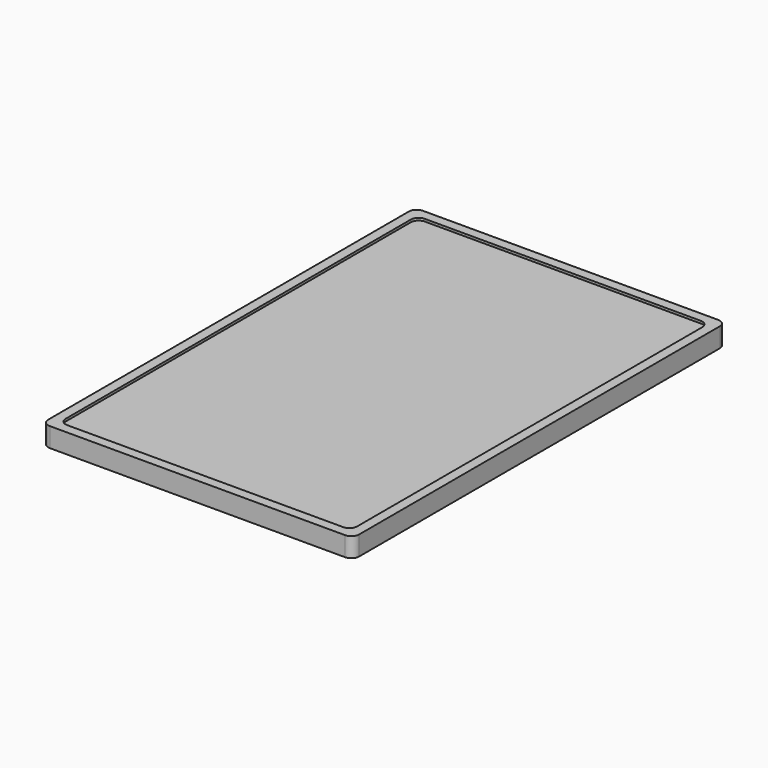
from build123d import *

# Parameters (mm, degrees)
F0_W     = 203.2
F0_H     = 304.8
F1_DEPTH = 12.7
F2_R     = 5.08
F3_W     = 190.5
F3_H     = 292.1
F4_DEPTH = 1.5875
F5_R     = 5.08
F6_R     = 10.16
F7_DEPTH = 25.4


with BuildPart() as f1:
    # F0 (on Top) → F1 (new body)
    with BuildSketch(Plane.XY):
        Rectangle(F0_W, F0_H)
    extrude(amount=F1_DEPTH)

    # F2
    f2_edges = [f1.edges().sort_by_distance(p)[0] for p in [
        (-101.6, 152.4, 6.35),
        (-101.6, -152.4, 6.35),
        (101.6, -152.4, 6.35),
        (101.6, 152.4, 6.35),
    ]]
    fillet(f2_edges, radius=F2_R)

    # F3 (on face) → F4 (cut)
    with BuildSketch(Plane.XY.offset(12.7)):
        Rectangle(F3_W, F3_H)
    extrude(amount=-F4_DEPTH, mode=Mode.SUBTRACT)

    # F5
    f5_edges = [f1.edges().sort_by_distance(p)[0] for p in [
        (95.25, -146.05, 11.90625),
        (-95.25, -146.05, 11.90625),
        (95.25, 146.05, 11.90625),
        (-95.25, 146.05, 11.90625),
    ]]
    fillet(f5_edges, radius=F5_R)

    # F6 (on face) → F7 (join)
    with BuildSketch(Plane(origin=(0, 0, 0), x_dir=(1, 0, 0), z_dir=(0, 0, -1))):
        Circle(F6_R)
    extrude(amount=F7_DEPTH)


solid = f1.part
